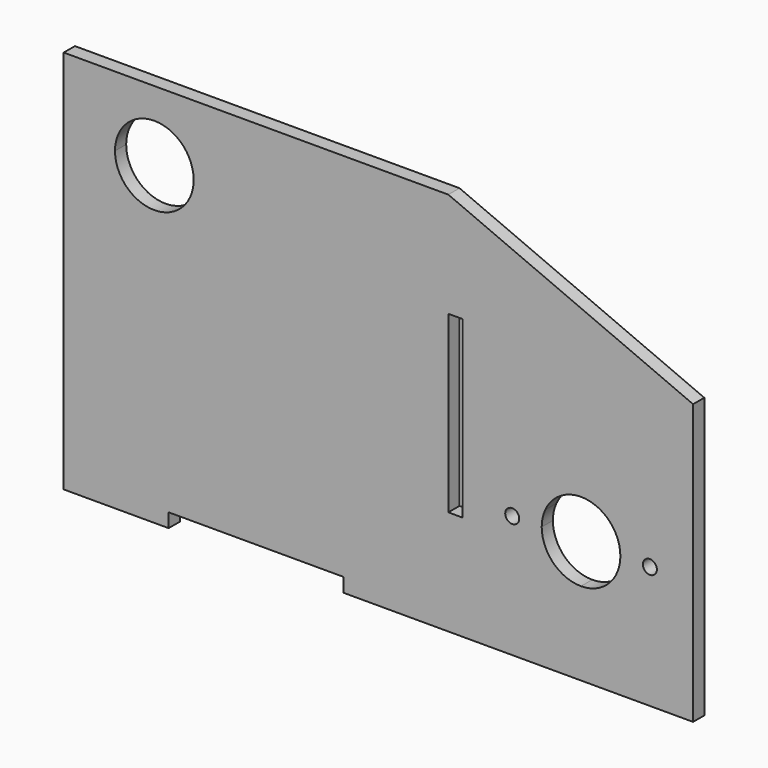
from build123d import *

# Parameters (mm, degrees)
F0_R     = 2.54
F1_DEPTH = 5.08
F2_W     = 63.5
F2_H     = 5.08
F3_DEPTH = 5.08
F5_DEPTH = 25.4


with BuildPart() as f1:
    # F0 (on Front) → F1 (new body)
    with BuildSketch(Plane.XZ):
        with BuildLine():
            Line((32.91078, 0), (0, 0))
            Line((0, 0), (0, -25.4))
            Line((0, -25.4), (18.62328, -25.4))
            ThreePointArc((18.62328, -25.4), (22.807992, -15.297212), (32.91078, -11.1125))
            Line((32.91078, -11.1125), (32.91078, 0))
        make_face()
        with BuildLine():
            Line((18.62328, -25.4), (0, -25.4))
            Line((0, -25.4), (0, -139.7))
            Line((0, -139.7), (139.7, -139.7))
            Line((139.7, -139.7), (187.900217, -139.7))
            Line((187.900217, -139.7), (187.900217, -109.5375))
            ThreePointArc((187.900217, -109.5375), (177.797429, -105.352788), (173.612717, -95.25))
            ThreePointArc((173.612717, -95.25), (173.931707, -92.247768), (174.874435, -89.379594))
            Line((174.874435, -89.379594), (45.936562, -31.270406))
            ThreePointArc((45.936562, -31.270406), (29.908548, -39.368509), (18.62328, -25.4))
        make_face()
        with Locations((162.900217, -95.25)):
            Circle(F0_R, mode=Mode.SUBTRACT)
        with BuildLine():
            Line((139.7, 0), (32.91078, 0))
            Line((32.91078, 0), (32.91078, -11.1125))
            ThreePointArc((32.91078, -11.1125), (43.013568, -15.297212), (47.19828, -25.4))
            ThreePointArc((47.19828, -25.4), (46.879289, -28.402232), (45.936562, -31.270406))
            Line((45.936562, -31.270406), (174.874435, -89.379594))
            ThreePointArc((174.874435, -89.379594), (190.902449, -81.281491), (202.187717, -95.25))
            ThreePointArc((202.187717, -95.25), (198.003005, -105.352788), (187.900217, -109.5375))
            Line((187.900217, -109.5375), (187.900217, -139.7))
            Line((187.900217, -139.7), (228.6, -139.7))
            Line((228.6, -139.7), (228.6, -38.1))
            Line((228.6, -38.1), (139.7, 0))
        make_face()
        with BuildLine():
            ThreePointArc((215.440217, -95.25), (212.900217, -97.79), (210.360217, -95.25))
            ThreePointArc((210.360217, -95.25), (212.900217, -92.71), (215.440217, -95.25))
        make_face(mode=Mode.SUBTRACT)
    extrude(amount=F1_DEPTH)

    # F2 (on face) → F3 (cut)
    with BuildSketch(Plane(origin=(0, 0, -139.7), x_dir=(1, 0, 0), z_dir=(0, 0, -1))):
        with Locations((69.85, 2.54)):
            Rectangle(F2_W, F2_H)
    extrude(amount=-F3_DEPTH, mode=Mode.SUBTRACT)

    # F4 (on face) → F5 (cut)
    with BuildSketch(Plane.XZ.offset(5.08)):
        Polygon((139.7, -69.85), (139.7, -101.6), (142.24, -101.6), (144.78, -101.6), (144.78, -38.1), (139.7, -38.1), align=None)
    extrude(amount=-F5_DEPTH, mode=Mode.SUBTRACT)


solid = f1.part
